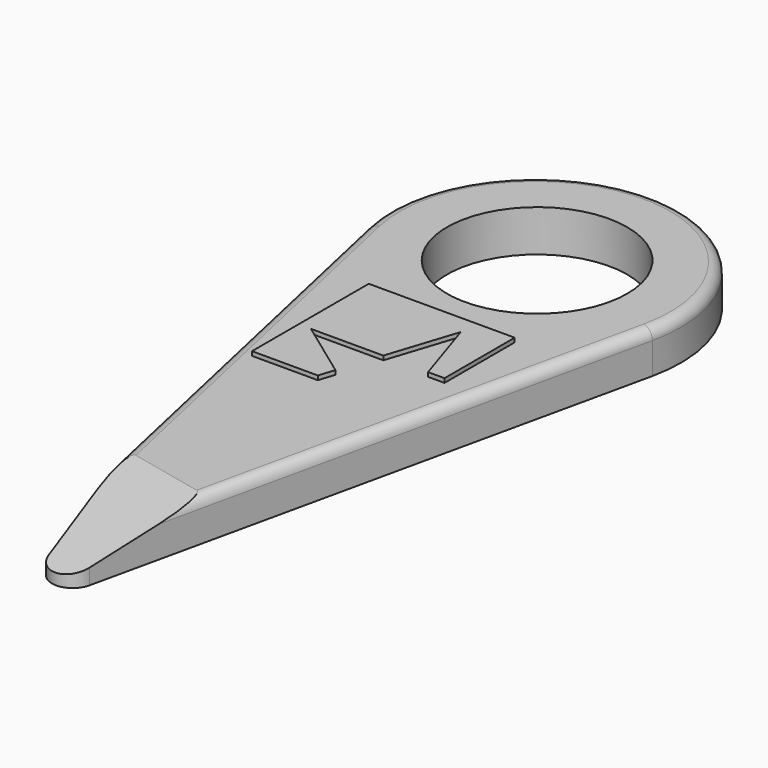
from build123d import *

# Parameters (mm, degrees)
PAD_DEPTH       = 2
POCKET_DEPTH    = 5
SKETCH004_R     = 4.32335
POCKET001_DEPTH = 5
PAD001_DEPTH    = 0.2
FILLET_R        = 0.5


with BuildPart() as part:
    # Sketch → Pad (new body)
    with BuildSketch(Plane.XY):
        with BuildLine():
            Line((-0.976296, -0.21644), (-6.834079, 26.206312))
            ThreePointArc((6.834079, 26.206312), (0, 34.721358), (-6.834079, 26.206312))
            Line((6.834079, 26.206312), (0.976296, -0.21644))
            ThreePointArc((-0.976296, -0.21644), (0, -1), (0.976296, -0.21644))
        make_face()
    extrude(amount=PAD_DEPTH)

    # Sketch001 → Pocket (cut)
    with BuildSketch(Plane(origin=(0.976296, -0.21644, 0), x_dir=(0.21644, 0.976296, 0), z_dir=(0.976296, -0.21644, 0))):
        Polygon((-2, 0.3), (10, 3), (-2, 3), align=None)
    extrude(amount=-POCKET_DEPTH, mode=Mode.SUBTRACT)

    # Sketch004 → Pocket001 (cut)
    with BuildSketch(Plane.XY.offset(2)):
        with Locations((0, 27.84)):
            Circle(SKETCH004_R)
    extrude(amount=-POCKET001_DEPTH, mode=Mode.SUBTRACT)

    # Sketch005 → Pad001 (new body)
    with BuildSketch(Plane.XY.offset(2)):
        Polygon((-3.5, 22.121615), (3.5, 22.121615), (3.5, 17.9142), (2.709286, 17.9142), (1.636494, 21.215913), (0.563703, 17.9142), (-2.907924, 17.9142), (-0.099319, 15.873629), (-0.343663, 15.121615), (-3.5, 15.121615), align=None)
    extrude(amount=PAD001_DEPTH)

    # Fillet
    fillet_edges = [part.edges().sort_by_distance(p)[0] for p in [
        (-4.619025, 16.214851, 2),
    ]]
    fillet(fillet_edges, radius=FILLET_R)


solid = part.part
